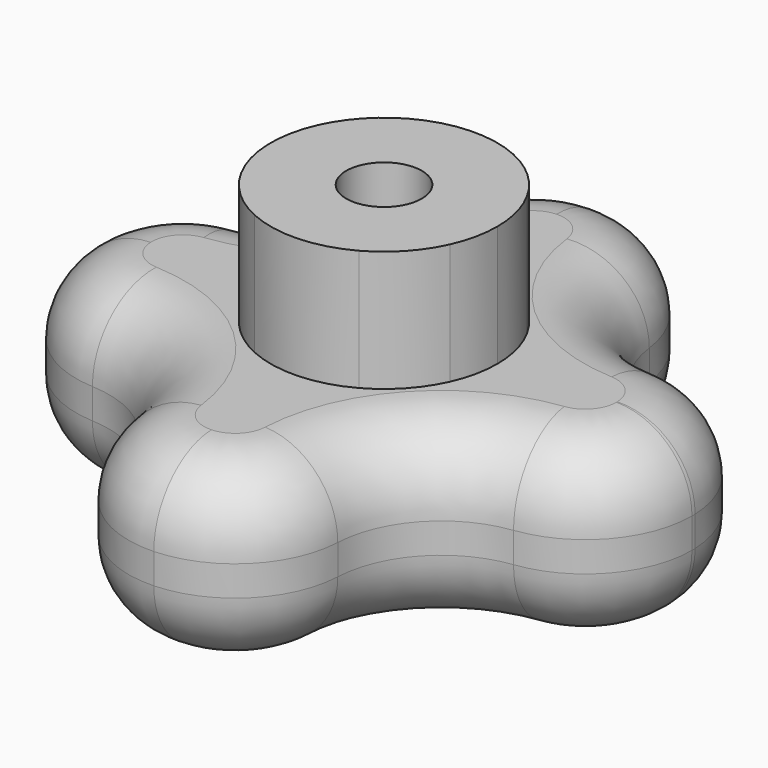
from build123d import *

# Parameters (mm, degrees)
F0_R     = 2.5
F1_DEPTH = 20
F2_DEPTH = 12
F3_R     = 5


with BuildPart() as f1:
    # F0 (on Top) → F1 (new body)
    with BuildSketch(Plane.XY):
        with BuildLine():
            ThreePointArc((6.8334705864, -3.0909027395), (5.8642916103, 0.2220330494), (6.5801871048, 3.5987689097))
            ThreePointArc((6.5801871048, 3.5987689097), (5.0988546193, 5.500152868), (3.0909027395, 6.8334705864))
            ThreePointArc((3.0909027395, 6.8334705864), (-0.2220330494, 5.8642916103), (-3.5987689097, 6.5801871048))
            ThreePointArc((-3.5987689097, 6.5801871048), (-5.500152868, 5.0988546193), (-6.8334705864, 3.0909027395))
            ThreePointArc((-6.8334705864, 3.0909027395), (-6.1071411443, 1.3658616264), (-5.8592325951, -0.489364142))
            ThreePointArc((-5.8592325951, -0.489364142), (-6.0418306344, -2.0853100539), (-6.5801871048, -3.5987689097))
            ThreePointArc((-6.5801871048, -3.5987689097), (-5.0988546193, -5.500152868), (-3.0909027395, -6.8334705864))
            ThreePointArc((-3.0909027395, -6.8334705864), (0.2220330494, -5.8642916103), (3.5987689097, -6.5801871048))
            ThreePointArc((3.5987689097, -6.5801871048), (5.500152868, -5.0988546193), (6.8334705864, -3.0909027395))
        make_face()
        Circle(F0_R, mode=Mode.SUBTRACT)
        with BuildLine():
            ThreePointArc((-3.5987689097, 6.5801871048), (-0.2220330494, 5.8642916103), (3.0909027395, 6.8334705864))
            ThreePointArc((3.0909027395, 6.8334705864), (-0.283760713, 7.4946300681), (-3.5987689097, 6.5801871048))
        make_face()
        with BuildLine():
            ThreePointArc((6.8334705864, -3.0909027395), (7.3314742514, -1.5809760596), (7.5, 0))
            ThreePointArc((7.5, 0), (7.2664091299, 1.8572286765), (6.5801871048, 3.5987689097))
            ThreePointArc((6.5801871048, 3.5987689097), (5.8642916103, 0.2220330494), (6.8334705864, -3.0909027395))
        make_face()
        with BuildLine():
            ThreePointArc((-3.0909027395, -6.8334705864), (0.283760713, -7.4946300681), (3.5987689097, -6.5801871048))
            ThreePointArc((3.5987689097, -6.5801871048), (0.2220330494, -5.8642916103), (-3.0909027395, -6.8334705864))
        make_face()
        with BuildLine():
            ThreePointArc((-5.8592325951, -0.489364142), (-6.1071411443, 1.3658616264), (-6.8334705864, 3.0909027395))
            ThreePointArc((-6.8334705864, 3.0909027395), (-7.4946300681, -0.283760713), (-6.5801871048, -3.5987689097))
            ThreePointArc((-6.5801871048, -3.5987689097), (-6.0418306344, -2.0853100539), (-5.8592325951, -0.489364142))
        make_face()
    extrude(amount=F1_DEPTH)

    # F0 (on Top) → F2 (join)
    with BuildSketch(Plane.XY):
        with BuildLine():
            ThreePointArc((-6.5229662777, -13.7922181567), (-5.8475768655, -9.7995981798), (-3.0909027395, -6.8334705864))
            ThreePointArc((-3.0909027395, -6.8334705864), (-5.0988546193, -5.500152868), (-6.5801871048, -3.5987689097))
            ThreePointArc((-6.5801871048, -3.5987689097), (-9.3293758522, -6.5718355247), (-13.2594952145, -7.5471947736))
            ThreePointArc((-13.2594952145, -7.5471947736), (-8.751081206, -9.4398231008), (-6.5229662777, -13.7922181567))
        make_face()
        with BuildLine():
            ThreePointArc((6.5801871048, 3.5987689097), (7.2664091299, 1.8572286765), (7.5, 0))
            ThreePointArc((7.5, 0), (7.3314742514, -1.5809760596), (6.8334705864, -3.0909027395))
            ThreePointArc((6.8334705864, -3.0909027395), (9.7995980718, -5.8475768122), (13.7922179176, -6.5229663073))
            ThreePointArc((13.7922179176, -6.5229663073), (18.2189691424, -4.1902310429), (19.9907391968, 0.489364142))
            ThreePointArc((19.9907391968, 0.489364142), (19.9894743232, 0.6230539717), (19.985680155, 0.7566959365))
            ThreePointArc((19.985680155, 0.7566959365), (17.9449438052, 5.4617772682), (13.2594951602, 7.5471947762))
            ThreePointArc((13.2594951602, 7.5471947762), (9.3293758288, 6.5718355109), (6.5801871048, 3.5987689097))
        make_face()
        with BuildLine():
            ThreePointArc((13.7922179176, -6.5229663073), (9.7995980718, -5.8475768122), (6.8334705864, -3.0909027395))
            ThreePointArc((6.8334705864, -3.0909027395), (5.500152868, -5.0988546193), (3.5987689097, -6.5801871048))
            ThreePointArc((3.5987689097, -6.5801871048), (6.4849940801, -9.1863643112), (7.5551174429, -12.9249858959))
            ThreePointArc((7.5551174429, -12.9249858959), (7.5531364952, -13.0922875721), (7.547194763, -13.2594954392))
            ThreePointArc((7.547194763, -13.2594954392), (9.4398229424, -8.7510813768), (13.7922179176, -6.5229663073))
        make_face()
        with BuildLine():
            ThreePointArc((6.8334705864, -3.0909027395), (5.8642916103, 0.2220330494), (6.5801871048, 3.5987689097))
            ThreePointArc((6.5801871048, 3.5987689097), (5.0988546193, 5.500152868), (3.0909027395, 6.8334705864))
            ThreePointArc((3.0909027395, 6.8334705864), (-0.2220330494, 5.8642916103), (-3.5987689097, 6.5801871048))
            ThreePointArc((-3.5987689097, 6.5801871048), (-5.500152868, 5.0988546193), (-6.8334705864, 3.0909027395))
            ThreePointArc((-6.8334705864, 3.0909027395), (-6.1071411443, 1.3658616264), (-5.8592325951, -0.489364142))
            ThreePointArc((-5.8592325951, -0.489364142), (-6.0418306344, -2.0853100539), (-6.5801871048, -3.5987689097))
            ThreePointArc((-6.5801871048, -3.5987689097), (-5.0988546193, -5.500152868), (-3.0909027395, -6.8334705864))
            ThreePointArc((-3.0909027395, -6.8334705864), (0.2220330494, -5.8642916103), (3.5987689097, -6.5801871048))
            ThreePointArc((3.5987689097, -6.5801871048), (5.500152868, -5.0988546193), (6.8334705864, -3.0909027395))
        make_face()
        Circle(F0_R, mode=Mode.SUBTRACT)
        with BuildLine():
            ThreePointArc((6.8334705864, -3.0909027395), (7.3314742514, -1.5809760596), (7.5, 0))
            ThreePointArc((7.5, 0), (7.2664091299, 1.8572286765), (6.5801871048, 3.5987689097))
            ThreePointArc((6.5801871048, 3.5987689097), (5.8642916103, 0.2220330494), (6.8334705864, -3.0909027395))
        make_face()
        with BuildLine():
            ThreePointArc((7.5551174429, -12.9249858959), (6.4849940801, -9.1863643112), (3.5987689097, -6.5801871048))
            ThreePointArc((3.5987689097, -6.5801871048), (0.283760713, -7.4946300681), (-3.0909027395, -6.8334705864))
            ThreePointArc((-3.0909027395, -6.8334705864), (-5.8475768655, -9.7995981798), (-6.5229662777, -13.7922181567))
            ThreePointArc((-6.5229662777, -13.7922181567), (-4.0892275286, -18.3065626187), (0.7566938759, -19.9856802331))
            ThreePointArc((0.7566938759, -19.9856802331), (5.4617764365, -17.9449446291), (7.547194763, -13.2594954392))
            ThreePointArc((7.547194763, -13.2594954392), (7.5531364952, -13.0922875721), (7.5551174429, -12.9249858959))
        make_face()
        with BuildLine():
            ThreePointArc((3.0909027395, 6.8334705864), (5.0988546193, 5.500152868), (6.5801871048, 3.5987689097))
            ThreePointArc((6.5801871048, 3.5987689097), (9.3293758288, 6.5718355109), (13.2594951602, 7.5471947762))
            ThreePointArc((13.2594951602, 7.5471947762), (8.7510812527, 9.4398230574), (6.5229663, 13.7922179762))
            ThreePointArc((6.5229663, 13.7922179762), (6.5630207977, 13.3594238901), (6.5763891589, 12.9249858959))
            ThreePointArc((6.5763891589, 12.9249858959), (5.6434228364, 9.4158843604), (3.0909027395, 6.8334705864))
        make_face()
        with BuildLine():
            ThreePointArc((-3.5987689097, 6.5801871048), (-0.283760713, 7.4946300681), (3.0909027395, 6.8334705864))
            ThreePointArc((3.0909027395, 6.8334705864), (5.6434228364, 9.4158843604), (6.5763891589, 12.9249858959))
            ThreePointArc((6.5763891589, 12.9249858959), (6.5630207977, 13.3594238901), (6.5229663, 13.7922179762))
            ThreePointArc((6.5229663, 13.7922179762), (4.0892269422, 18.3065631176), (-0.7566955961, 19.9856801679))
            ThreePointArc((-0.7566955961, 19.9856801679), (-5.4617770309, 17.9449440403), (-7.5471947607, 13.2594954872))
            ThreePointArc((-7.5471947607, 13.2594954872), (-6.5718355942, 9.3293759697), (-3.5987689097, 6.5801871048))
        make_face()
        with BuildLine():
            ThreePointArc((-6.8334705864, 3.0909027395), (-5.500152868, 5.0988546193), (-3.5987689097, 6.5801871048))
            ThreePointArc((-3.5987689097, 6.5801871048), (-6.5718355942, 9.3293759697), (-7.5471947607, 13.2594954872))
            ThreePointArc((-7.5471947607, 13.2594954872), (-9.4398229383, 8.7510813813), (-13.7922179532, 6.5229663029))
            ThreePointArc((-13.7922179532, 6.5229663029), (-9.7995980879, 5.8475768202), (-6.8334705864, 3.0909027395))
        make_face()
        with BuildLine():
            ThreePointArc((-6.5801871048, -3.5987689097), (-7.4946300681, -0.283760713), (-6.8334705864, 3.0909027395))
            ThreePointArc((-6.8334705864, 3.0909027395), (-9.7995980879, 5.8475768202), (-13.7922179532, 6.5229663029))
            ThreePointArc((-13.7922179532, 6.5229663029), (-18.3065631087, 4.0892269526), (-19.9856801681, -0.756695592))
            ThreePointArc((-19.9856801681, -0.756695592), (-17.9449439456, -5.4617771265), (-13.2594952145, -7.5471947736))
            ThreePointArc((-13.2594952145, -7.5471947736), (-9.3293758522, -6.5718355247), (-6.5801871048, -3.5987689097))
        make_face()
        with BuildLine():
            ThreePointArc((-5.8592325951, -0.489364142), (-6.1071411443, 1.3658616264), (-6.8334705864, 3.0909027395))
            ThreePointArc((-6.8334705864, 3.0909027395), (-7.4946300681, -0.283760713), (-6.5801871048, -3.5987689097))
            ThreePointArc((-6.5801871048, -3.5987689097), (-6.0418306344, -2.0853100539), (-5.8592325951, -0.489364142))
        make_face()
        with BuildLine():
            ThreePointArc((-3.0909027395, -6.8334705864), (0.283760713, -7.4946300681), (3.5987689097, -6.5801871048))
            ThreePointArc((3.5987689097, -6.5801871048), (0.2220330494, -5.8642916103), (-3.0909027395, -6.8334705864))
        make_face()
        with BuildLine():
            ThreePointArc((-3.5987689097, 6.5801871048), (-0.2220330494, 5.8642916103), (3.0909027395, 6.8334705864))
            ThreePointArc((3.0909027395, 6.8334705864), (-0.283760713, 7.4946300681), (-3.5987689097, 6.5801871048))
        make_face()
    extrude(amount=F2_DEPTH)

    # F3
    f3_edges = [f1.edges().sort_by_distance(p)[0] for p in [
        (-19.98568, -0.756695, 12),
        (-19.98568, -0.756695, 0),
    ]]
    fillet(f3_edges, radius=F3_R)


solid = f1.part
